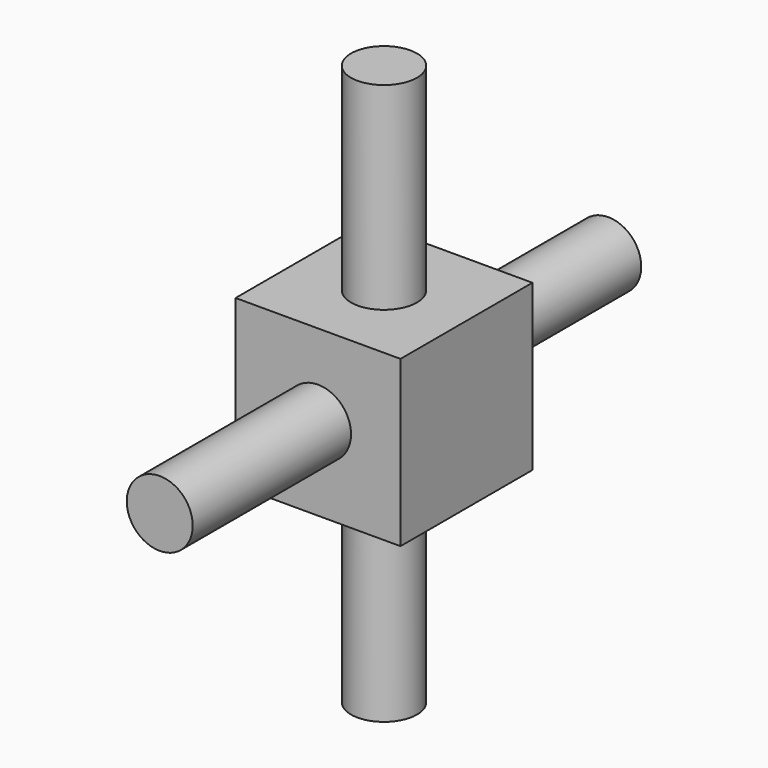
from build123d import *

# Parameters (mm, degrees)
F0_W          = 50
F0_H          = 50
F1_DEPTH      = 25
F1_DEPTH_BACK = 25
F2_R          = 10
F3_DEPTH      = 60
F4_R          = 10
F5_DEPTH      = 60
F6_R          = 10
F7_DEPTH      = 60
F8_R          = 10
F9_DEPTH      = 60


with BuildPart() as f1:
    # F0 (on Top) → F1 (new body, two sides)
    with BuildSketch(Plane.XY) as f1_sk:
        Rectangle(F0_W, F0_H)
    extrude(amount=F1_DEPTH)
    extrude(f1_sk.sketch, amount=-F1_DEPTH_BACK)

    # F2 (on face) → F3 (join)
    with BuildSketch(Plane.XZ.offset(25)):
        Circle(F2_R)
    extrude(amount=F3_DEPTH)

    # F4 (on face) → F5 (join)
    with BuildSketch(Plane(origin=(0, 0, -25), x_dir=(1, 0, 0), z_dir=(0, 0, -1))):
        Circle(F4_R)
    extrude(amount=F5_DEPTH)

    # F6 (on face) → F7 (join)
    with BuildSketch(Plane.XY.offset(25)):
        Circle(F6_R)
    extrude(amount=F7_DEPTH)

    # F8 (on face) → F9 (join)
    with BuildSketch(Plane(origin=(0, 25, 0), x_dir=(-1, 0, 0), z_dir=(0, 1, 0))):
        Circle(F8_R)
    extrude(amount=F9_DEPTH)


solid = f1.part
